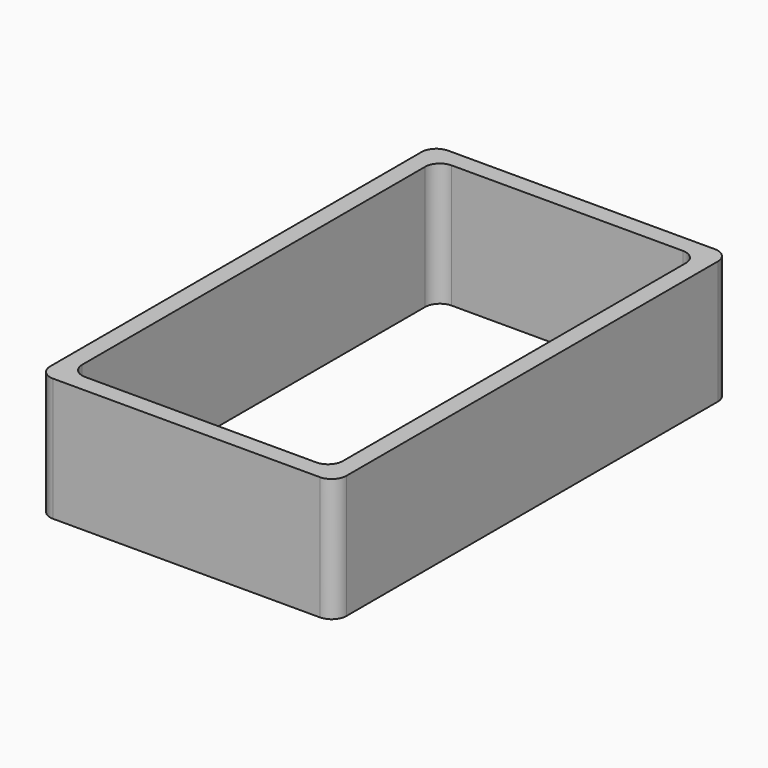
from build123d import *

# Parameters (mm, degrees)
F1_DEPTH = 25


with BuildPart() as f1:
    # F0 (on Top) → F1 (new body)
    with BuildSketch(Plane.XY):
        with BuildLine():
            Line((8.591215, 50), (-45.408785, 50))
            ThreePointArc((-45.408785, 50), (-47.530106, 49.12132), (-48.408785, 47))
            Line((-48.408785, 47), (-48.408785, -47))
            ThreePointArc((-48.408785, -47), (-47.530106, -49.12132), (-45.408785, -50))
            Line((-45.408785, -50), (8.591215, -50))
            ThreePointArc((8.591215, -50), (10.712535, -49.12132), (11.591215, -47))
            Line((11.591215, -47), (11.591215, 47))
            ThreePointArc((11.591215, 47), (10.712535, 49.12132), (8.591215, 50))
        make_face()
        with BuildLine():
            Line((-41.808785, 46.4), (-18.408785, 46.4))
            Line((-18.408785, 46.4), (4.991215, 46.4))
            ThreePointArc((4.991215, 46.4), (7.112535, 45.52132), (7.991215, 43.4))
            Line((7.991215, 43.4), (7.991215, 23.050746))
            Line((7.991215, 23.050746), (7.991215, -43.4))
            ThreePointArc((7.991215, -43.4), (7.112535, -45.52132), (4.991215, -46.4))
            Line((4.991215, -46.4), (-18.408785, -46.4))
            Line((-18.408785, -46.4), (-41.808785, -46.4))
            ThreePointArc((-41.808785, -46.4), (-43.930106, -45.52132), (-44.808785, -43.4))
            Line((-44.808785, -43.4), (-44.808785, 23.050746))
            Line((-44.808785, 23.050746), (-44.808785, 43.4))
            ThreePointArc((-44.808785, 43.4), (-43.930106, 45.52132), (-41.808785, 46.4))
        make_face(mode=Mode.SUBTRACT)
    extrude(amount=F1_DEPTH)


solid = f1.part
